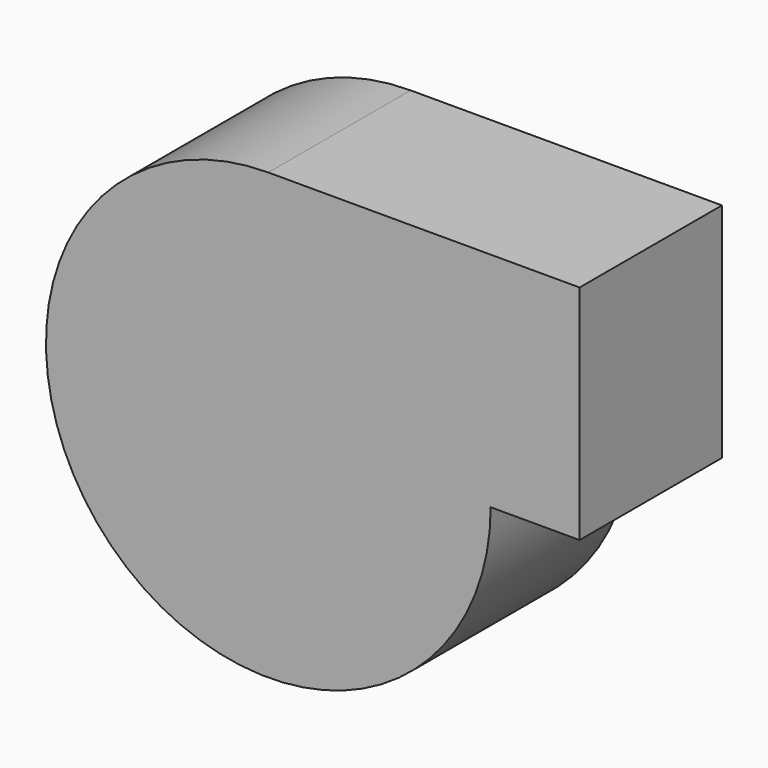
from build123d import *

# Parameters (mm, degrees)
F1_DEPTH = 101.6


with BuildPart() as f1:
    # F0 (on Front) → F1 (new body)
    with BuildSketch(Plane.XZ):
        with BuildLine():
            Line((0, 0), (127, 0))
            ThreePointArc((127, 0), (89.8025612107, 89.8025612107), (0, 127))
            Line((0, 127), (0, 0))
        make_face()
        with BuildLine():
            ThreePointArc((0, 127), (-89.8025612107, -89.8025612107), (127, 0))
            Line((127, 0), (0, 0))
            Line((0, 0), (0, 127))
        make_face()
        with BuildLine():
            ThreePointArc((0, 127), (89.8025612107, 89.8025612107), (127, 0))
            Line((127, 0), (177.8, 0))
            Line((177.8, 0), (177.8, 127))
            Line((177.8, 127), (0, 127))
        make_face()
    extrude(amount=F1_DEPTH)


solid = f1.part
